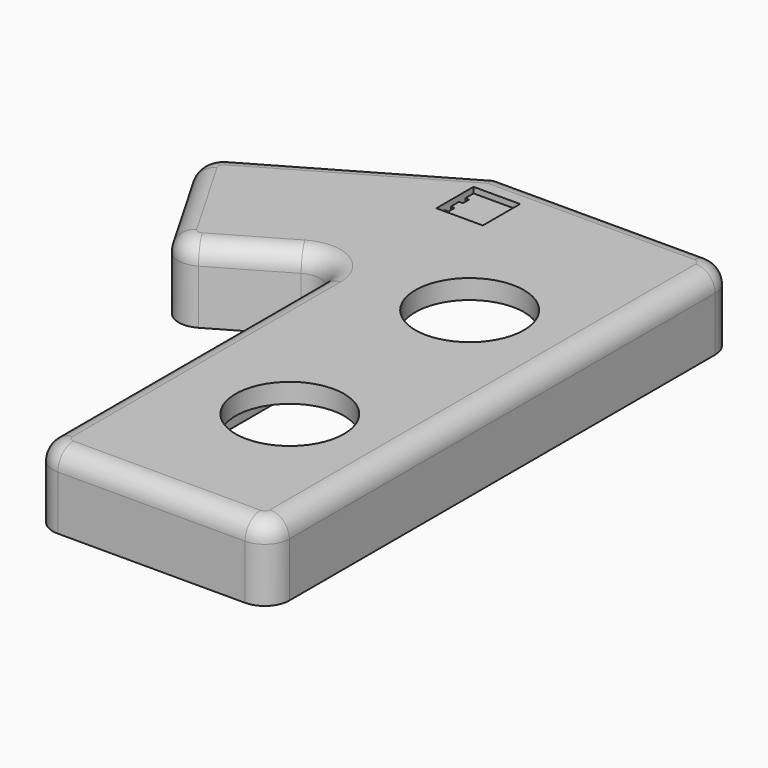
from build123d import *

# Parameters (mm, degrees)
PAD001_DEPTH         = 19
SKETCH004_R          = 14
POCKET_DEPTH         = 0.001
POCKET_DEPTH_BACK    = 19.001
POCKET001_DEPTH      = 14
FILLET_R             = 5
SKETCH012_W          = 12
SKETCH012_H          = 12
POCKET003_DEPTH      = 1.5
SKETCH013_W          = 1
SKETCH013_H          = 2
POCKET004_DEPTH      = 19.001
POCKET004_DEPTH_BACK = 0.001
SKETCH016_W          = 10
SKETCH016_H          = 3
POCKET007_DEPTH      = 75.001


with BuildPart() as part:
    # Sketch005 → Pad001 (new body)
    with BuildSketch(Plane.XY):
        with BuildLine():
            Line((119, 31.35), (119, 117.813456))
            ThreePointArc((119, 117.813456), (115.825, 123.312717), (109.475, 123.312717))
            Line((109.475, 123.312717), (91.368603, 112.858984))
            ThreePointArc((82.694341, 115.183245), (86.550102, 112.224616), (91.368603, 112.858984))
            Line((82.694341, 115.183245), (69.044341, 138.825739))
            ThreePointArc((71.368603, 147.5), (68.409974, 143.64424), (69.044341, 138.825739))
            Line((71.368603, 147.5), (119, 175))
            Line((119, 175), (173.65, 175))
            ThreePointArc((180, 168.65), (178.140128, 173.140128), (173.65, 175))
            Line((180, 168.65), (180, 31.35))
            ThreePointArc((173.65, 25), (178.140128, 26.859872), (180, 31.35))
            Line((173.65, 25), (125.35, 25))
            ThreePointArc((119, 31.35), (120.859872, 26.859872), (125.35, 25))
        make_face()
    extrude(amount=PAD001_DEPTH)

    # Sketch004 → Pocket (cut, two sides)
    with BuildSketch(Plane.XY) as pocket_sk:
        with Locations((152, 124.5)):
            Circle(SKETCH004_R)
        with Locations((152, 66.5)):
            Circle(SKETCH004_R)
    extrude(amount=-POCKET_DEPTH, mode=Mode.SUBTRACT)
    extrude(pocket_sk.sketch, amount=POCKET_DEPTH_BACK, mode=Mode.SUBTRACT)

    # Sketch006 → Pocket001 (cut)
    with BuildSketch(Plane.XY):
        with BuildLine():
            Line((73.868603, 143.169873), (120.339746, 170))
            Line((120.339746, 170), (165, 170))
            ThreePointArc((165, 170), (167.928932, 162.928932), (175, 160))
            Line((175, 160), (175, 30))
            Line((175, 30), (134, 30))
            ThreePointArc((134, 30), (131.071068, 37.071068), (124, 40))
            Line((124, 40), (124, 137.472233))
            Line((124, 137.472233), (88.868603, 117.189111))
            Line((88.868603, 117.189111), (73.868603, 143.169873))
        make_face()
    extrude(amount=POCKET001_DEPTH, mode=Mode.SUBTRACT)

    # Fillet
    fillet_edges = [part.edges().sort_by_distance(p)[0] for p in [
        (119, 74.581728, 19),
    ]]
    fillet(fillet_edges, radius=FILLET_R)

    # Sketch012 → Pocket003 (cut, symmetric)
    with BuildSketch(Plane.XY.offset(19)):
        with Locations((125, 161)):
            Rectangle(SKETCH012_W, SKETCH012_H)
    extrude(amount=POCKET003_DEPTH, both=True, mode=Mode.SUBTRACT)

    # Sketch013 → Pocket004 (cut, two sides)
    with BuildSketch(Plane.XY.offset(19)) as pocket004_sk:
        with Locations((119.5, 163.333333)):
            Rectangle(SKETCH013_W, SKETCH013_H)
        with Locations((130.5, 163.333333)):
            Rectangle(SKETCH013_W, SKETCH013_H)
        with Locations((119.5, 158.666667)):
            Rectangle(SKETCH013_W, SKETCH013_H)
        with Locations((130.5, 158.666667)):
            Rectangle(SKETCH013_W, SKETCH013_H)
    extrude(amount=-POCKET004_DEPTH, mode=Mode.SUBTRACT)
    extrude(pocket004_sk.sketch, amount=POCKET004_DEPTH_BACK, mode=Mode.SUBTRACT)

    # Sketch016 → Pocket007 (cut, through all)
    with BuildSketch(Plane.XZ.offset(-100)):
        with Locations((152, 1.5)):
            Rectangle(SKETCH016_W, SKETCH016_H)
    extrude(amount=-POCKET007_DEPTH, mode=Mode.SUBTRACT)


solid = part.part
